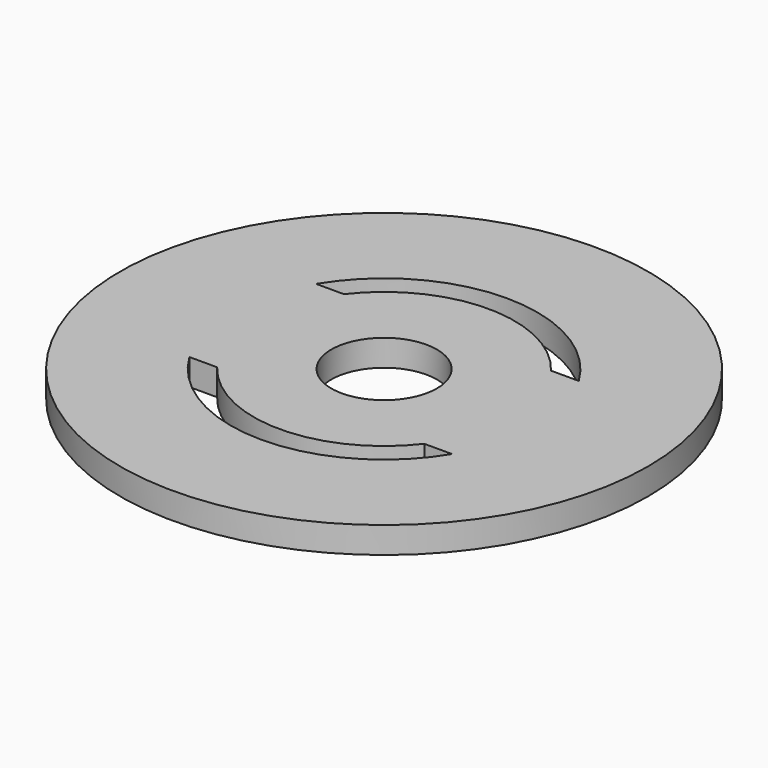
from build123d import *

# Parameters (mm, degrees)
F0_R     = 63.5
F0_R_2   = 12.7
F1_DEPTH = 6.35


with BuildPart() as f1:
    # F0 (on Top) → F1 (new body)
    with BuildSketch(Plane.XY):
        Circle(F0_R)
        with BuildLine():
            ThreePointArc((-24.922112, -19.05), (0, -31.369), (24.922112, -19.05))
            Line((24.922112, -19.05), (31.594744, -19.05))
            ThreePointArc((31.594744, -19.05), (0, -36.8935), (-31.594744, -19.05))
            Line((-31.594744, -19.05), (-24.922112, -19.05))
        make_face(mode=Mode.SUBTRACT)
        with BuildLine():
            ThreePointArc((-31.594744, 19.05), (0, 36.8935), (31.594744, 19.05))
            Line((31.594744, 19.05), (24.922112, 19.05))
            ThreePointArc((24.922112, 19.05), (0, 31.369), (-24.922112, 19.05))
            Line((-24.922112, 19.05), (-31.594744, 19.05))
        make_face(mode=Mode.SUBTRACT)
        Circle(F0_R_2, mode=Mode.SUBTRACT)
    extrude(amount=F1_DEPTH)


solid = f1.part
